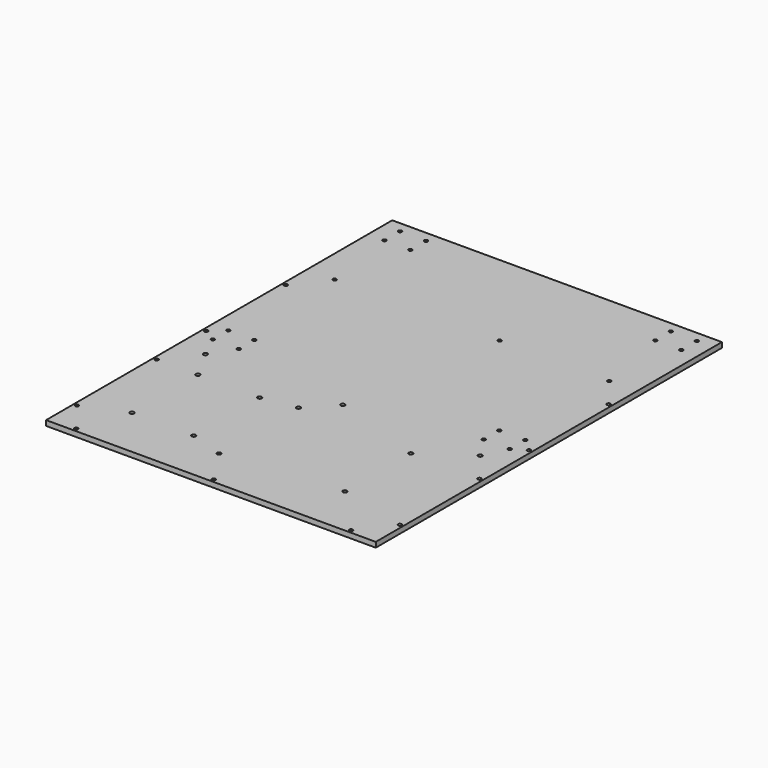
from build123d import *

# Parameters (mm, degrees)
F0_W            = 304.8
F0_H            = 304.8
F1_DEPTH        = 4.7625
F3_D            = 3.7973
F3_CSINK_D      = 7.7978
F3_CSINK_ANGLE  = 82
F4_W            = 304.8
F4_H            = 95.25
F5_DEPTH        = 4.7625
F7_D            = 3.2639
F7_DEPTH        = 13.7414
F7_CSINK_D      = 6.477
F7_CSINK_ANGLE  = 82
F7_TIP          = 0.9805744872
F9_D            = 3.2639
F9_DEPTH        = 13.7414
F9_CSINK_D      = 6.477
F9_CSINK_ANGLE  = 82
F9_TIP          = 0.9805744872
F11_D           = 3.7973
F11_CSINK_D     = 7.7978
F11_CSINK_ANGLE = 82


with BuildPart() as f1:
    # F0 (on Top) → F1 (new body)
    with BuildSketch(Plane.XY):
        Rectangle(F0_W, F0_H)
    extrude(amount=F1_DEPTH)

    # F3 (through all)
    with Locations(Plane(origin=(0, 0, 0), x_dir=(1, 0, 0), z_dir=(0, 0, -1))):
        with Locations((-127, 0), (0, 0), (127, 0)):
            CounterSinkHole(F3_D / 2, F3_CSINK_D / 2, counter_sink_angle=F3_CSINK_ANGLE)

    # F4 (on face) → F5 (join)
    with BuildSketch(Plane.XY.offset(4.7625)):
        with Locations((0, 200.025)):
            Rectangle(F4_W, F4_H)
    extrude(amount=-F5_DEPTH)

    # F7
    with Locations(Plane(origin=(0, 0, 0), x_dir=(1, 0, 0), z_dir=(0, 0, -1))):
        with Locations((127, 149.225), (0, 149.225), (-127, 149.225), (-127, -149.225), (25.5778, -149.225), (127, -149.225), (149.225, -120.65), (149.225, 28.575), (149.225, 120.65), (-149.225, 120.65), (-149.225, 28.575), (-149.225, -28.575), (-149.225, -120.65), (149.225, -28.575)):
            CounterSinkHole(F7_D / 2, F7_CSINK_D / 2, depth=F7_DEPTH, counter_sink_angle=F7_CSINK_ANGLE)
            with Locations((0, 0, -(F7_DEPTH + F7_TIP / 2))):  # 118° drill point
                Cone(0, F7_D / 2, F7_TIP, mode=Mode.SUBTRACT)

    # F9
    with Locations(Plane(origin=(0, 0, 0), x_dir=(1, 0, 0), z_dir=(0, 0, -1))):
        with Locations((-137.2294, -21.3644000014), (-137.2294, -39.3644000014), (-113.2294, -39.3644000014), (-113.2294, -21.3644000014), (-113.2294, -219.7044000014), (-113.2294, -237.7044000014), (-137.2294, -237.7044000014), (-137.2294, -219.7044000014), (113.24, -237.7044000014), (113.24, -219.7044000014), (137.24, -219.7044000014), (137.24, -237.7044000014), (137.24, -21.3644000014), (113.24, -21.3644000014), (113.24, -39.3644000014), (137.24, -39.3644000014)):
            CounterSinkHole(F9_D / 2, F9_CSINK_D / 2, depth=F9_DEPTH, counter_sink_angle=F9_CSINK_ANGLE)
            with Locations((0, 0, -(F9_DEPTH + F9_TIP / 2))):  # 118° drill point
                Cone(0, F9_D / 2, F9_TIP, mode=Mode.SUBTRACT)

    # F11 (through all)
    with Locations(Plane(origin=(0, 0, 0), x_dir=(1, 0, 0), z_dir=(0, 0, -1))):
        with Locations((-111.125, 104.775), (-111.125, 28.575), (-53.975, 28.575), (-53.975, 104.775), (-22.225, 115.1382), (-22.225, 23.3934), (85.725, 28.575), (85.725, 104.775)):
            CounterSinkHole(F11_D / 2, F11_CSINK_D / 2, counter_sink_angle=F11_CSINK_ANGLE)


solid = f1.part
